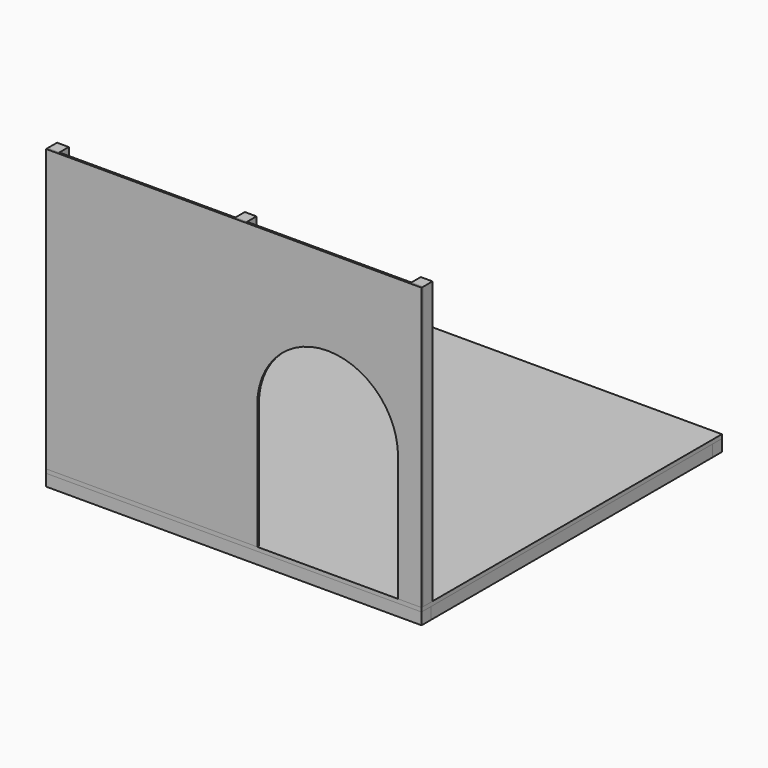
from build123d import *

# Parameters (mm, degrees)
F1_W      = 1219.2
F1_H      = 38.1
F1_W_2    = 1143
F2_DEPTH  = 38.1
F3_W      = 38.1
F3_H      = 1143
F4_DEPTH  = 38.1
F5_W      = 38.1
F5_H      = 552.45
F6_DEPTH  = 38.1
F7_W      = 1219.2
F7_H      = 1219.2
F8_DEPTH  = 12.7
F9_W      = 1219.2
F9_H      = 914.4
F10_DEPTH = 6.35
F12_DEPTH = 254
F13_W     = 38.1
F13_H     = 914.4
F14_DEPTH = 38.1
F15_W     = 38.1
F15_H     = 914.4
F16_DEPTH = 38.1


with BuildPart() as f2:
    # F1 (on Top) → F2 (new body)
    with BuildSketch(Plane.XY):
        with Locations((0, -590.55)):
            Rectangle(F1_W, F1_H)
        with Locations((0, 590.55)):
            Rectangle(F1_W, F1_H)
        Rectangle(F1_W_2, F1_H)
    extrude(amount=F2_DEPTH)


with BuildPart() as f4:
    # F3 (on Top) → F4 (new body)
    with BuildSketch(Plane.XY):
        with Locations((590.55, 0)):
            Rectangle(F3_W, F3_H)
        with Locations((-590.55, 0)):
            Rectangle(F3_W, F3_H)
    extrude(amount=F4_DEPTH)


with BuildPart() as f6:
    # F5 (on Top) → F6 (new body)
    with BuildSketch(Plane.XY):
        with Locations((0, 295.275)):
            Rectangle(F5_W, F5_H)
        with Locations((0, -295.275)):
            Rectangle(F5_W, F5_H)
    extrude(amount=F6_DEPTH)


with BuildPart() as f8:
    # F7 (on face) → F8 (new body)
    with BuildSketch(Plane.XY.offset(38.1)):
        Rectangle(F7_W, F7_H)
    extrude(amount=F8_DEPTH)


with BuildPart() as f10:
    # F9 (on face) → F10 (new body)
    with BuildSketch(Plane.XZ.offset(609.6)):
        with Locations((0, 508)):
            Rectangle(F9_W, F9_H)
    extrude(amount=-F10_DEPTH)

    # F11 (on face) → F12 (cut)
    with BuildSketch(Plane.XZ.offset(609.6)):
        with BuildLine():
            Line((76.2, 457.2), (76.2, 50.8))
            Line((76.2, 50.8), (533.4, 50.8))
            Line((533.4, 50.8), (533.4, 457.2))
            ThreePointArc((533.4, 457.2), (304.8, 685.8), (76.2, 457.2))
        make_face()
    extrude(amount=-F12_DEPTH, mode=Mode.SUBTRACT)


with BuildPart() as f14:
    # F13 (on face) → F14 (new body)
    with BuildSketch(Plane(origin=(0, -603.25, 0), x_dir=(-1, 0, 0), z_dir=(0, 1, 0))):
        with Locations((-590.55, 508)):
            Rectangle(F13_W, F13_H)
        with Locations((590.55, 508)):
            Rectangle(F13_W, F13_H)
    extrude(amount=F14_DEPTH)


with BuildPart() as f16:
    # F15 (on face) → F16 (new body)
    with BuildSketch(Plane(origin=(0, -603.25, 0), x_dir=(-1, 0, 0), z_dir=(0, 1, 0))):
        with Locations((-19.05, 508)):
            Rectangle(F15_W, F15_H)
    extrude(amount=F16_DEPTH)


solid = Compound([f2.part, f4.part, f6.part, f8.part, f10.part, f14.part, f16.part])
